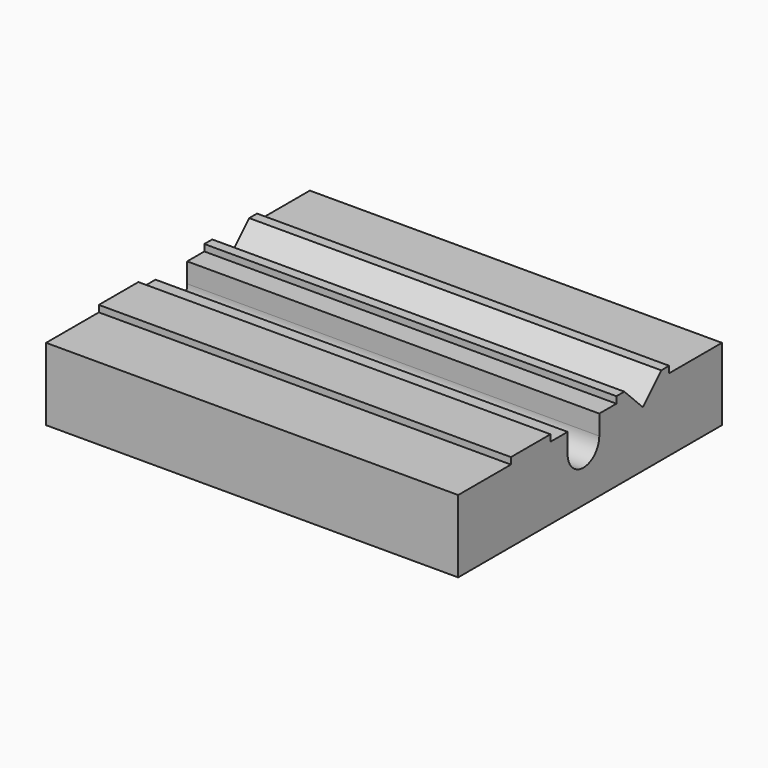
from build123d import *

# Parameters (mm, degrees)
F1_DEPTH = 125


with BuildPart() as f1:
    # F0 (on Right) → F1 (new body)
    with BuildSketch(Plane.YZ):
        with BuildLine():
            Line((50, -11), (50, 11))
            Line((50, 11), (30, 11))
            Line((30, 11), (30, 13))
            Line((30, 13), (27, 13))
            Line((27, 13), (20, 6))
            Line((20, 6), (13, 13))
            Line((13, 13), (10, 13))
            Line((10, 13), (10, 11))
            Line((10, 11), (3.5, 11))
            Line((3.5, 11), (3.5, 5))
            ThreePointArc((3.5, 5), (-2.5, -1), (-8.5, 5))
            Line((-8.5, 5), (-8.5, 11))
            Line((-8.5, 11), (-15, 11))
            Line((-15, 11), (-15, 13))
            Line((-15, 13), (-30, 13))
            Line((-30, 13), (-30, 11))
            Line((-30, 11), (-50, 11))
            Line((-50, 11), (-50, -11))
            Line((-50, -11), (50, -11))
        make_face()
    extrude(amount=F1_DEPTH)


solid = f1.part
